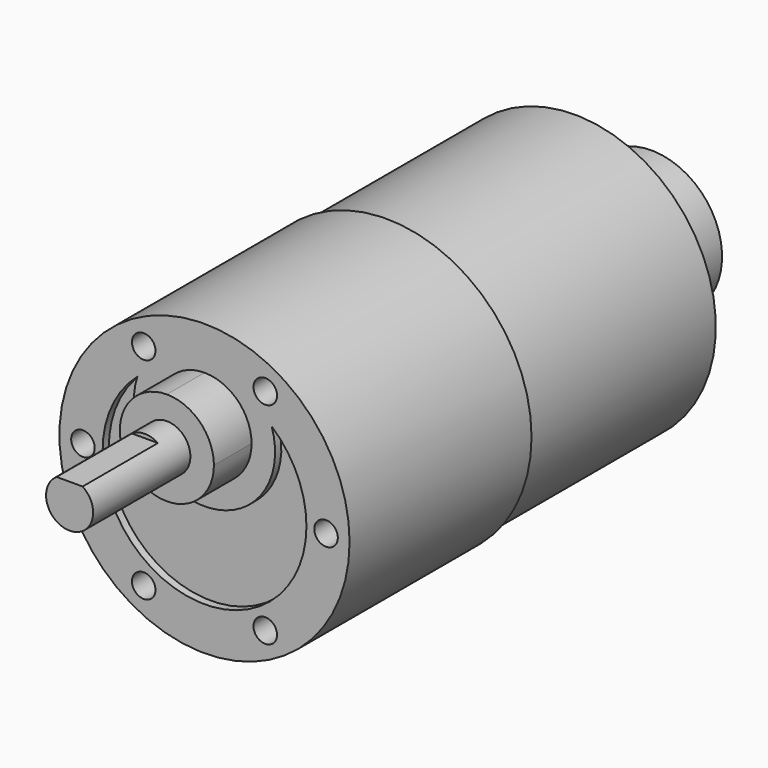
from build123d import *

# Parameters (mm, degrees)
F0_R      = 18.5
F0_R_2    = 18
F0_R_3    = 1.5
F0_R_4    = 3
F1_DEPTH  = 29
F2_R      = 18
F3_DEPTH  = 30
F4_R      = 9
F5_DEPTH  = 12.24
F6_DEPTH  = 6
F7_DEPTH  = 21.5
F8_DEPTH  = 10
F10_DEPTH = 12
F11_DEPTH = 1


with BuildPart() as f1:
    # F0 (on Front) → F1 (new body)
    with BuildSketch(Plane.XZ):
        Circle(F0_R)
        Circle(F0_R_2, mode=Mode.SUBTRACT)
        Circle(F0_R_2)
        with Locations((-7.75, -13.4233937587)):
            Circle(F0_R_3, mode=Mode.SUBTRACT)
        with Locations((7.75, -13.4233937587)):
            Circle(F0_R_3, mode=Mode.SUBTRACT)
        with Locations((-15.5, 0)):
            Circle(F0_R_3, mode=Mode.SUBTRACT)
        with Locations((-7.75, 13.4233937587)):
            Circle(F0_R_3, mode=Mode.SUBTRACT)
        with BuildLine():
            ThreePointArc((-8.5580252347, 9.7857142857), (-4.5708705218, 12.1699278007), (-4.3e-08, 13))
            ThreePointArc((-4.3e-08, 13), (4.5708704815, 12.1699278158), (8.5580252347, 9.7857142857))
            ThreePointArc((8.5580252347, 9.7857142857), (11.8375320074, 5.3733449521), (13, 0))
            ThreePointArc((13, 0), (-5.3733449521, -11.8375320074), (-8.5580252347, 9.7857142857))
        make_face(mode=Mode.SUBTRACT)
        with Locations((15.5, 0)):
            Circle(F0_R_3, mode=Mode.SUBTRACT)
        with Locations((7.75, 13.4233937587)):
            Circle(F0_R_3, mode=Mode.SUBTRACT)
        with BuildLine():
            ThreePointArc((13, 0), (11.8375320074, 5.3733449521), (8.5580252347, 9.7857142857))
            ThreePointArc((8.5580252347, 9.7857142857), (0, -2), (-8.5580252347, 9.7857142857))
            ThreePointArc((-8.5580252347, 9.7857142857), (-5.3733449521, -11.8375320074), (13, 0))
        make_face()
        with BuildLine():
            ThreePointArc((8.5580252347, 9.7857142857), (4.5708704815, 12.1699278158), (-4.3e-08, 13))
            ThreePointArc((-4.3e-08, 13), (-4.5708705218, 12.1699278007), (-8.5580252347, 9.7857142857))
            ThreePointArc((-8.5580252347, 9.7857142857), (0, -2), (8.5580252347, 9.7857142857))
        make_face()
        with BuildLine():
            ThreePointArc((-4.3e-08, 13), (4.2426406719, 11.2426407023), (6, 7))
            ThreePointArc((6, 7), (-4.2426406719, 2.7573592977), (-4.3e-08, 13))
        make_face(mode=Mode.SUBTRACT)
        with BuildLine():
            ThreePointArc((-4.3e-08, 13), (-4.2426406719, 2.7573592977), (6, 7))
            ThreePointArc((6, 7), (4.2426406719, 11.2426407023), (-4.3e-08, 13))
        make_face()
        with Locations((0, 7)):
            Circle(F0_R_4, mode=Mode.SUBTRACT)
        with Locations((0, 7)):
            Circle(F0_R_4)
        with Locations((-15.5, 0)):
            Circle(F0_R_3)
        with Locations((7.75, -13.4233937587)):
            Circle(F0_R_3)
        with Locations((15.5, 0)):
            Circle(F0_R_3)
        with Locations((7.75, 13.4233937587)):
            Circle(F0_R_3)
        with Locations((-7.75, -13.4233937587)):
            Circle(F0_R_3)
        with Locations((-7.75, 13.4233937587)):
            Circle(F0_R_3)
    extrude(amount=-F1_DEPTH)

    # F2 (on face) → F3 (join)
    with BuildSketch(Plane(origin=(0, 29, 0), x_dir=(-1, 0, 0), z_dir=(0, 1, 0))):
        Circle(F2_R)
    extrude(amount=F3_DEPTH)

    # F4 (on face) → F5 (join)
    with BuildSketch(Plane(origin=(0, 59, 0), x_dir=(-1, 0, 0), z_dir=(0, 1, 0))):
        Circle(F4_R)
    extrude(amount=F5_DEPTH)

    # F0 (on Front) → F6 (join)
    with BuildSketch(Plane.XZ):
        with BuildLine():
            ThreePointArc((-4.3e-08, 13), (-4.2426406719, 2.7573592977), (6, 7))
            ThreePointArc((6, 7), (4.2426406719, 11.2426407023), (-4.3e-08, 13))
        make_face()
        with Locations((0, 7)):
            Circle(F0_R_4, mode=Mode.SUBTRACT)
    extrude(amount=F6_DEPTH)

    # F0 (on Front) → F7 (join)
    with BuildSketch(Plane.XZ):
        with Locations((0, 7)):
            Circle(F0_R_4)
    extrude(amount=F7_DEPTH)

    # F0 (on Front) → F8 (cut)
    with BuildSketch(Plane.XZ):
        with Locations((-7.75, 13.4233937587)):
            Circle(F0_R_3)
        with Locations((7.75, 13.4233937587)):
            Circle(F0_R_3)
        with Locations((15.5, 0)):
            Circle(F0_R_3)
        with Locations((-7.75, -13.4233937587)):
            Circle(F0_R_3)
        with Locations((-15.5, 0)):
            Circle(F0_R_3)
        with Locations((7.75, -13.4233937587)):
            Circle(F0_R_3)
    extrude(amount=-F8_DEPTH, mode=Mode.SUBTRACT)

    # F9 (on face) → F10 (cut)
    with BuildSketch(Plane.XZ.offset(21.5)):
        with BuildLine():
            ThreePointArc((-1.6583123952, 9.5), (0, 10), (1.6583123952, 9.5))
            Line((1.6583123952, 9.5), (6.0122050345, 9.5))
            Line((6.0122050345, 9.5), (6.0122050345, 13.4357631467))
            Line((6.0122050345, 13.4357631467), (-7.3503456078, 13.4357631467))
            Line((-7.3503456078, 13.4357631467), (-7.3503456078, 9.5))
            Line((-7.3503456078, 9.5), (-1.6583123952, 9.5))
        make_face()
        with BuildLine():
            Line((-1.6583123952, 9.5), (1.6583123952, 9.5))
            ThreePointArc((1.6583123952, 9.5), (0, 10), (-1.6583123952, 9.5))
        make_face()
    extrude(amount=-F10_DEPTH, mode=Mode.SUBTRACT)

    # F0 (on Front) → F11 (cut)
    with BuildSketch(Plane.XZ):
        with BuildLine():
            ThreePointArc((13, 0), (11.8375320074, 5.3733449521), (8.5580252347, 9.7857142857))
            ThreePointArc((8.5580252347, 9.7857142857), (0, -2), (-8.5580252347, 9.7857142857))
            ThreePointArc((-8.5580252347, 9.7857142857), (-5.3733449521, -11.8375320074), (13, 0))
        make_face()
    extrude(amount=-F11_DEPTH, mode=Mode.SUBTRACT)


solid = f1.part
